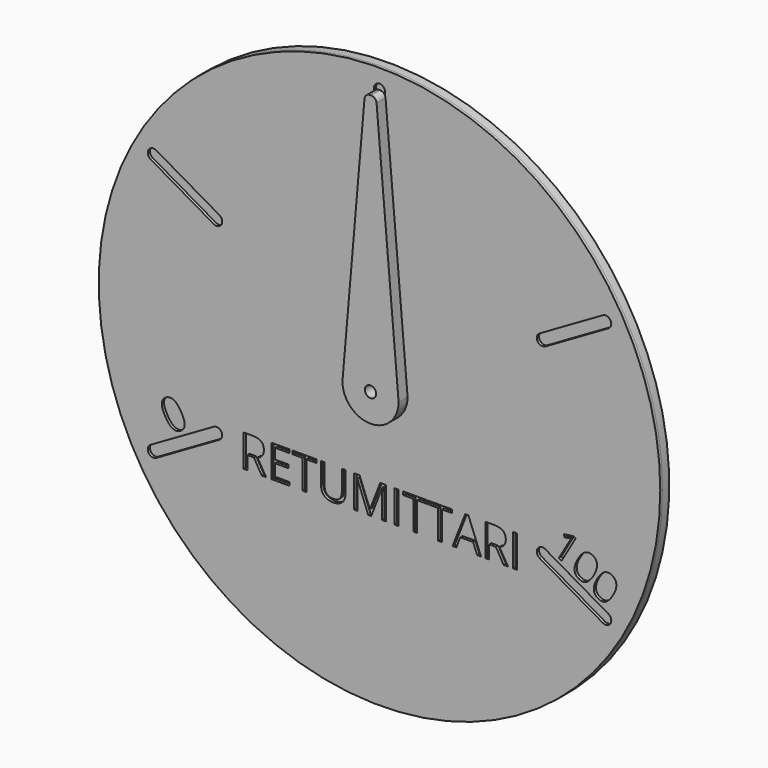
from build123d import *

# Parameters (mm, degrees)
F0_R     = 100
F0_W     = 1.3295275295
F0_H     = 11.4399459175
F0_R_2   = 2
F1_DEPTH = 1
F2_R     = 100
F3_DEPTH = 3
F4_R     = 2
F5_DEPTH = 4


with BuildPart() as f1:
    # F0 (on Front) → F1 (new body)
    with BuildSketch(Plane.XZ):
        Circle(F0_R)
        with BuildLine():
            Line((-57.0237020536, -35.2320508076), (-79.540362552, -48.2320508076))
            ThreePointArc((-79.540362552, -48.2320508076), (-81.0580006422, -48.4318516526), (-82.2724133595, -47.5))
            ThreePointArc((-82.2724133595, -47.5), (-82.4722142045, -45.9823619098), (-81.540362552, -44.7679491924))
            Line((-81.540362552, -44.7679491924), (-59.0237020536, -31.7679491924))
            ThreePointArc((-59.0237020536, -31.7679491924), (-57.5060639634, -31.5681483474), (-56.291651246, -32.5))
            ThreePointArc((-56.291651246, -32.5), (-56.091850401, -34.0176380902), (-57.0237020536, -35.2320508076))
        make_face(mode=Mode.SUBTRACT)
        with BuildLine():
            add(Edge.make_bspline(
                [(-73.2501817512, -28.0413216509), (-71.8698957142, -28.7566999738), (-70.6296613392, -30.9048489246)],
                knots=[0, 0, 0, 1, 1, 1], degree=2))
            add(Edge.make_bspline(
                [(-70.6296613392, -30.9048489246), (-69.3438540475, -33.1319324825), (-69.4115851419, -34.6357125357)],
                knots=[0, 0, 0, 1, 1, 1], degree=2))
            add(Edge.make_bspline(
                [(-69.4115851419, -34.6357125357), (-69.4793162364, -36.1394925889), (-70.9245713048, -36.9739109917)],
                knots=[0, 0, 0, 1, 1, 1], degree=2))
            add(Edge.make_bspline(
                [(-70.9245713048, -36.9739109917), (-72.3096857201, -37.7736071723), (-73.6817273168, -37.0659982222)],
                knots=[0, 0, 0, 1, 1, 1], degree=2))
            add(Edge.make_bspline(
                [(-73.6817273168, -37.0659982222), (-75.0537689135, -36.3583892722), (-76.3091942607, -34.1839287857)],
                knots=[0, 0, 0, 1, 1, 1], degree=2))
            add(Edge.make_bspline(
                [(-76.3091942607, -34.1839287857), (-77.6036821079, -31.9418100646), (-77.5322596899, -30.450933988)],
                knots=[0, 0, 0, 1, 1, 1], degree=2))
            add(Edge.make_bspline(
                [(-77.5322596899, -30.450933988), (-77.460837272, -28.9600579114), (-76.0287379714, -28.1332349947)],
                knots=[0, 0, 0, 1, 1, 1], degree=2))
            add(Edge.make_bspline(
                [(-76.0287379714, -28.1332349947), (-74.6304677882, -27.3259433281), (-73.2501817512, -28.0413216509)],
                knots=[0, 0, 0, 1, 1, 1], degree=2))
        make_face(mode=Mode.SUBTRACT)
        with BuildLine():
            Line((-44.7094318836, -36.7803400185), (-47.0980745637, -36.7803400185))
            Line((-47.0980745637, -36.7803400185), (-47.0980745637, -41.5375948321))
            Line((-47.0980745637, -41.5375948321), (-48.4276020932, -41.5375948321))
            Line((-48.4276020932, -41.5375948321), (-48.4276020932, -30.0976489146))
            Line((-48.4276020932, -30.0976489146), (-45.2903177345, -30.0976489146))
            add(Edge.make_bspline(
                [(-45.2903177345, -30.0976489146), (-43.184606525, -30.0976489146), (-42.1793234683, -30.9038784146)],
                knots=[0, 0, 0, 1, 1, 1], degree=2))
            add(Edge.make_bspline(
                [(-42.1793234683, -30.9038784146), (-41.1740404116, -31.7101079146), (-41.1740404116, -33.3300783695)],
                knots=[0, 0, 0, 1, 1, 1], degree=2))
            add(Edge.make_bspline(
                [(-41.1740404116, -33.3300783695), (-41.1740404116, -35.5985377701), (-43.4750494504, -36.3972558151)],
                knots=[0, 0, 0, 1, 1, 1], degree=2))
            Line((-43.4750494504, -36.3972558151), (-40.3678109116, -41.5375948321))
            Line((-40.3678109116, -41.5375948321), (-41.9402088184, -41.5375948321))
            Line((-41.9402088184, -41.5375948321), (-44.7094318836, -36.7803400185))
        make_face(mode=Mode.SUBTRACT)
        Polygon((-32.1452715391, -40.3482811287), (-32.1452715391, -41.5375948321), (-38.5224968076, -41.5375948321), (-38.5224968076, -30.0976489146), (-32.1452715391, -30.0976489146), (-32.1452715391, -31.279451163), (-37.1929692781, -31.279451163), (-37.1929692781, -34.9650717344), (-32.4507373745, -34.9650717344), (-32.4507373745, -36.1393625279), (-37.1929692781, -36.1393625279), (-37.1929692781, -40.3482811287), align=None, mode=Mode.SUBTRACT)
        Polygon((-26.0910388342, -31.279451163), (-26.0910388342, -41.5375948321), (-27.4205663637, -41.5375948321), (-27.4205663637, -31.279451163), (-31.043591477, -31.279451163), (-31.043591477, -30.0976489146), (-22.4680137209, -30.0976489146), (-22.4680137209, -31.279451163), align=None, mode=Mode.SUBTRACT)
        with BuildLine():
            Line((-13.4367410301, -30.0976489146), (-12.1072135006, -30.0976489146))
            Line((-12.1072135006, -30.0976489146), (-12.1072135006, -37.4989358772))
            add(Edge.make_bspline(
                [(-12.1072135006, -37.4989358772), (-12.1072135006, -39.4569218058), (-13.289015749, -40.5761285961)],
                knots=[0, 0, 0, 1, 1, 1], degree=2))
            add(Edge.make_bspline(
                [(-13.289015749, -40.5761285961), (-14.4708179974, -41.6953353865), (-16.5364681139, -41.6953353865)],
                knots=[0, 0, 0, 1, 1, 1], degree=2))
            add(Edge.make_bspline(
                [(-16.5364681139, -41.6953353865), (-18.6021182303, -41.6953353865), (-19.7325922031, -40.567365232)],
                knots=[0, 0, 0, 1, 1, 1], degree=2))
            add(Edge.make_bspline(
                [(-19.7325922031, -40.567365232), (-20.8630661759, -39.4393950775), (-20.8630661759, -37.4688900573)],
                knots=[0, 0, 0, 1, 1, 1], degree=2))
            Line((-20.8630661759, -37.4688900573), (-20.8630661759, -30.0976489146))
            Line((-20.8630661759, -30.0976489146), (-19.5310348281, -30.0976489146))
            Line((-19.5310348281, -30.0976489146), (-19.5310348281, -37.5615313353))
            add(Edge.make_bspline(
                [(-19.5310348281, -37.5615313353), (-19.5310348281, -38.993715416), (-18.7485916022, -39.761135732)],
                knots=[0, 0, 0, 1, 1, 1], degree=2))
            add(Edge.make_bspline(
                [(-18.7485916022, -39.761135732), (-17.9661483763, -40.528556048), (-16.4488344726, -40.528556048)],
                knots=[0, 0, 0, 1, 1, 1], degree=2))
            add(Edge.make_bspline(
                [(-16.4488344726, -40.528556048), (-15.0016274819, -40.528556048), (-14.219184256, -39.7573800045)],
                knots=[0, 0, 0, 1, 1, 1], degree=2))
            add(Edge.make_bspline(
                [(-14.219184256, -39.7573800045), (-13.4367410301, -38.986203961), (-13.4367410301, -37.5465084253)],
                knots=[0, 0, 0, 1, 1, 1], degree=2))
            Line((-13.4367410301, -37.5465084253), (-13.4367410301, -30.0976489146))
        make_face(mode=Mode.SUBTRACT)
        with BuildLine():
            Line((-2.9457422569, -41.5375948321), (-4.0173764992, -41.5375948321))
            Line((-4.0173764992, -41.5375948321), (-7.8982948997, -31.3971306242))
            Line((-7.8982948997, -31.3971306242), (-7.9608903578, -31.3971306242))
            add(Edge.make_bspline(
                [(-7.9608903578, -31.3971306242), (-7.8507223516, -32.6014672375), (-7.8507223516, -34.2614987856)],
                knots=[0, 0, 0, 1, 1, 1], degree=2))
            Line((-7.8507223516, -34.2614987856), (-7.8507223516, -41.5375948321))
            Line((-7.8507223516, -41.5375948321), (-9.0800971482, -41.5375948321))
            Line((-9.0800971482, -41.5375948321), (-9.0800971482, -30.0976489146))
            Line((-9.0800971482, -30.0976489146), (-7.0770424898, -30.0976489146))
            Line((-7.0770424898, -30.0976489146), (-3.4540173765, -39.5345401738))
            Line((-3.4540173765, -39.5345401738), (-3.3914219184, -39.5345401738))
            Line((-3.3914219184, -39.5345401738), (0.2616490147, -30.0976489146))
            Line((0.2616490147, -30.0976489146), (2.2496807632, -30.0976489146))
            Line((2.2496807632, -30.0976489146), (2.2496807632, -41.5375948321))
            Line((2.2496807632, -41.5375948321), (0.9201532337, -41.5375948321))
            Line((0.9201532337, -41.5375948321), (0.9201532337, -34.1663536894))
            add(Edge.make_bspline(
                [(0.9201532337, -34.1663536894), (0.9201532337, -32.899421618), (1.0303212399, -31.4121535341)],
                knots=[0, 0, 0, 1, 1, 1], degree=2))
            Line((1.0303212399, -31.4121535341), (0.9677257818, -31.4121535341))
            Line((0.9677257818, -31.4121535341), (-2.9457422569, -41.5375948321))
        make_face(mode=Mode.SUBTRACT)
        with Locations((6.0517288866, -35.8176218734)):
            Rectangle(F0_W, F0_H, mode=Mode.SUBTRACT)
        Polygon((13.374145572, -31.279451163), (13.374145572, -41.5375948321), (12.0446180425, -41.5375948321), (12.0446180425, -31.279451163), (8.4215929292, -31.279451163), (8.4215929292, -30.0976489146), (16.9971706853, -30.0976489146), (16.9971706853, -31.279451163), align=None, mode=Mode.SUBTRACT)
        Polygon((22.2401662535, -31.279451163), (22.2401662535, -41.5375948321), (20.9106387241, -41.5375948321), (20.9106387241, -31.279451163), (17.2876136108, -31.279451163), (17.2876136108, -30.0976489146), (25.8631913668, -30.0976489146), (25.8631913668, -31.279451163), align=None, mode=Mode.SUBTRACT)
        Polygon((36.1538846741, -41.5375948321), (34.7767845965, -41.5375948321), (33.3521119708, -37.8995468089), (28.7676206214, -37.8995468089), (27.360474724, -41.5375948321), (26.0134204662, -41.5375948321), (30.5353163574, -30.0500763665), (31.6545231478, -30.0500763665), align=None, mode=Mode.SUBTRACT)
        with BuildLine():
            Line((41.4444527905, -36.7803400185), (39.0558101104, -36.7803400185))
            Line((39.0558101104, -36.7803400185), (39.0558101104, -41.5375948321))
            Line((39.0558101104, -41.5375948321), (37.7262825809, -41.5375948321))
            Line((37.7262825809, -41.5375948321), (37.7262825809, -30.0976489146))
            Line((37.7262825809, -30.0976489146), (40.8635669396, -30.0976489146))
            add(Edge.make_bspline(
                [(40.8635669396, -30.0976489146), (42.9692781492, -30.0976489146), (43.9745612058, -30.9038784146)],
                knots=[0, 0, 0, 1, 1, 1], degree=2))
            add(Edge.make_bspline(
                [(43.9745612058, -30.9038784146), (44.9798442625, -31.7101079146), (44.9798442625, -33.3300783695)],
                knots=[0, 0, 0, 1, 1, 1], degree=2))
            add(Edge.make_bspline(
                [(44.9798442625, -33.3300783695), (44.9798442625, -35.5985377701), (42.6788352237, -36.3972558151)],
                knots=[0, 0, 0, 1, 1, 1], degree=2))
            Line((42.6788352237, -36.3972558151), (45.7860737625, -41.5375948321))
            Line((45.7860737625, -41.5375948321), (44.2136758557, -41.5375948321))
            Line((44.2136758557, -41.5375948321), (41.4444527905, -36.7803400185))
        make_face(mode=Mode.SUBTRACT)
        with Locations((48.2961516312, -35.8176218734)):
            Rectangle(F0_W, F0_H, mode=Mode.SUBTRACT)
        with BuildLine():
            Line((59.0237020536, -31.7679491924), (81.540362552, -44.7679491924))
            ThreePointArc((81.540362552, -44.7679491924), (82.4722142045, -45.9823619098), (82.2724133595, -47.5))
            ThreePointArc((82.2724133595, -47.5), (81.0580006422, -48.4318516526), (79.540362552, -48.2320508076))
            Line((79.540362552, -48.2320508076), (57.0237020536, -35.2320508076))
            ThreePointArc((57.0237020536, -35.2320508076), (56.091850401, -34.0176380902), (56.291651246, -32.5))
            ThreePointArc((56.291651246, -32.5), (57.5060639634, -31.5681483474), (59.0237020536, -31.7679491924))
        make_face(mode=Mode.SUBTRACT)
        with BuildLine():
            add(Edge.make_bspline(
                [(77.4813772865, -30.6636544374), (77.551984504, -32.2167063714), (76.311750129, -34.3648553222)],
                knots=[0, 0, 0, 1, 1, 1], degree=2))
            add(Edge.make_bspline(
                [(76.311750129, -34.3648553222), (75.0259428374, -36.5919388801), (73.6897655624, -37.2851720583)],
                knots=[0, 0, 0, 1, 1, 1], degree=2))
            add(Edge.make_bspline(
                [(73.6897655624, -37.2851720583), (72.3535882874, -37.9784052365), (70.908333219, -37.1439868337)],
                knots=[0, 0, 0, 1, 1, 1], degree=2))
            add(Edge.make_bspline(
                [(70.908333219, -37.1439868337), (69.5232188037, -36.3442906532), (69.450005332, -34.8022633004)],
                knots=[0, 0, 0, 1, 1, 1], degree=2))
            add(Edge.make_bspline(
                [(69.450005332, -34.8022633004), (69.3767918603, -33.2602359476), (70.6322172075, -31.0857754611)],
                knots=[0, 0, 0, 1, 1, 1], degree=2))
            add(Edge.make_bspline(
                [(70.6322172075, -31.0857754611), (71.9267050547, -28.8436567399), (73.25355282, -28.16007233)],
                knots=[0, 0, 0, 1, 1, 1], degree=2))
            add(Edge.make_bspline(
                [(73.25355282, -28.16007233), (74.5804005852, -27.4764879201), (76.0124998857, -28.3033108367)],
                knots=[0, 0, 0, 1, 1, 1], degree=2))
            add(Edge.make_bspline(
                [(76.0124998857, -28.3033108367), (77.4107700689, -29.1106025034), (77.4813772865, -30.6636544374)],
                knots=[0, 0, 0, 1, 1, 1], degree=2))
        make_face(mode=Mode.SUBTRACT)
        with BuildLine():
            Line((69.8263398113, -24.9121516116), (64.8686575196, -33.4991092286))
            Line((64.8686575196, -33.4991092286), (63.9176834434, -32.9500640897))
            Line((63.9176834434, -32.9500640897), (67.4506695545, -26.8307526428))
            add(Edge.make_bspline(
                [(67.4506695545, -26.8307526428), (67.8922928184, -26.065838712), (68.3320728425, -25.4126243105)],
                knots=[0, 0, 0, 1, 1, 1], degree=2))
            add(Edge.make_bspline(
                [(68.3320728425, -25.4126243105), (68.1382975576, -25.4661348936), (67.9075443667, -25.5120785055)],
                knots=[0, 0, 0, 1, 1, 1], degree=2))
            add(Edge.make_bspline(
                [(67.9075443667, -25.5120785055), (67.6767911757, -25.5580221174), (65.8488640548, -25.8508208744)],
                knots=[0, 0, 0, 1, 1, 1], degree=2))
            Line((65.8488640548, -25.8508208744), (65.7183150399, -24.8833620121))
            Line((65.7183150399, -24.8833620121), (69.0050440182, -24.4379762644))
            Line((69.0050440182, -24.4379762644), (69.8263398113, -24.9121516116))
        make_face(mode=Mode.SUBTRACT)
        with BuildLine():
            add(Edge.make_bspline(
                [(84.3580850826, -34.6339235346), (84.4286923002, -36.1869754686), (83.1884579252, -38.3351244194)],
                knots=[0, 0, 0, 1, 1, 1], degree=2))
            add(Edge.make_bspline(
                [(83.1884579252, -38.3351244194), (81.9026506335, -40.5622079773), (80.5664733585, -41.2554411555)],
                knots=[0, 0, 0, 1, 1, 1], degree=2))
            add(Edge.make_bspline(
                [(80.5664733585, -41.2554411555), (79.2302960835, -41.9486743337), (77.7850410151, -41.1142559309)],
                knots=[0, 0, 0, 1, 1, 1], degree=2))
            add(Edge.make_bspline(
                [(77.7850410151, -41.1142559309), (76.3999265998, -40.3145597504), (76.3267131281, -38.7725323976)],
                knots=[0, 0, 0, 1, 1, 1], degree=2))
            add(Edge.make_bspline(
                [(76.3267131281, -38.7725323976), (76.2534996564, -37.2305050448), (77.5089250036, -35.0560445583)],
                knots=[0, 0, 0, 1, 1, 1], degree=2))
            add(Edge.make_bspline(
                [(77.5089250036, -35.0560445583), (78.8034128509, -32.8139258371), (80.1302606161, -32.1303414272)],
                knots=[0, 0, 0, 1, 1, 1], degree=2))
            add(Edge.make_bspline(
                [(80.1302606161, -32.1303414272), (81.4571083813, -31.4467570173), (82.8892076818, -32.273579934)],
                knots=[0, 0, 0, 1, 1, 1], degree=2))
            add(Edge.make_bspline(
                [(82.8892076818, -32.273579934), (84.287477865, -33.0808716006), (84.3580850826, -34.6339235346)],
                knots=[0, 0, 0, 1, 1, 1], degree=2))
        make_face(mode=Mode.SUBTRACT)
        with BuildLine():
            Line((-59.0237020536, 31.7679491924), (-81.540362552, 44.7679491924))
            ThreePointArc((-81.540362552, 44.7679491924), (-82.4722142045, 45.9823619098), (-82.2724133595, 47.5))
            ThreePointArc((-82.2724133595, 47.5), (-81.0580006422, 48.4318516526), (-79.540362552, 48.2320508076))
            Line((-79.540362552, 48.2320508076), (-57.0237020536, 35.2320508076))
            ThreePointArc((-57.0237020536, 35.2320508076), (-56.091850401, 34.0176380902), (-56.291651246, 32.5))
            ThreePointArc((-56.291651246, 32.5), (-57.5060639634, 31.5681483474), (-59.0237020536, 31.7679491924))
        make_face(mode=Mode.SUBTRACT)
        Circle(F0_R_2, mode=Mode.SUBTRACT)
        with BuildLine():
            Line((57.0237020536, 35.2320508076), (79.540362552, 48.2320508076))
            ThreePointArc((79.540362552, 48.2320508076), (81.0580006422, 48.4318516526), (82.2724133595, 47.5))
            ThreePointArc((82.2724133595, 47.5), (82.4722142045, 45.9823619098), (81.540362552, 44.7679491924))
            Line((81.540362552, 44.7679491924), (59.0237020536, 31.7679491924))
            ThreePointArc((59.0237020536, 31.7679491924), (57.5060639634, 31.5681483474), (56.291651246, 32.5))
            ThreePointArc((56.291651246, 32.5), (56.091850401, 34.0176380902), (57.0237020536, 35.2320508076))
        make_face(mode=Mode.SUBTRACT)
        with BuildLine():
            Line((-2, 67), (-2, 93))
            ThreePointArc((-2, 93), (-1.4142135624, 94.4142135624), (0, 95))
            ThreePointArc((0, 95), (1.4142135624, 94.4142135624), (2, 93))
            Line((2, 93), (2, 67))
            ThreePointArc((2, 67), (1.4142135624, 65.5857864376), (0, 65))
            ThreePointArc((0, 65), (-1.4142135624, 65.5857864376), (-2, 67))
        make_face(mode=Mode.SUBTRACT)
    extrude(amount=F1_DEPTH)

    # F2 (on face) → F3 (join)
    with BuildSketch(Plane(origin=(0, 0, 0), x_dir=(-1, 0, 0), z_dir=(0, 1, 0))):
        Circle(F2_R)
    extrude(amount=F3_DEPTH)

    # F4 (on face) → F5 (join)
    with BuildSketch(Plane.XZ.offset(1)):
        with BuildLine():
            ThreePointArc((-9.9922301738, 0.0903242291), (-9.9981575764, -0.0054294434), (-9.9994863227, -0.1013571992))
            ThreePointArc((-9.9994863227, -0.1013571992), (0.0506792504, -9.9998715799), (10, 0))
            Line((10, 0), (2.1572980655, 91.1714099884))
            ThreePointArc((2.1572980655, 91.1714099884), (1.5169106285, 92.4735704898), (0.1646569498, 93))
            Line((0.1646569498, 93), (-0.1646569498, 93))
            ThreePointArc((-0.1646569498, 93), (-1.5169106285, 92.4735704898), (-2.1572980655, 91.1714099884))
            Line((-2.1572980655, 91.1714099884), (-9.9922301738, 0.0903242291))
        make_face()
        Circle(F4_R, mode=Mode.SUBTRACT)
    extrude(amount=F5_DEPTH)


solid = f1.part
